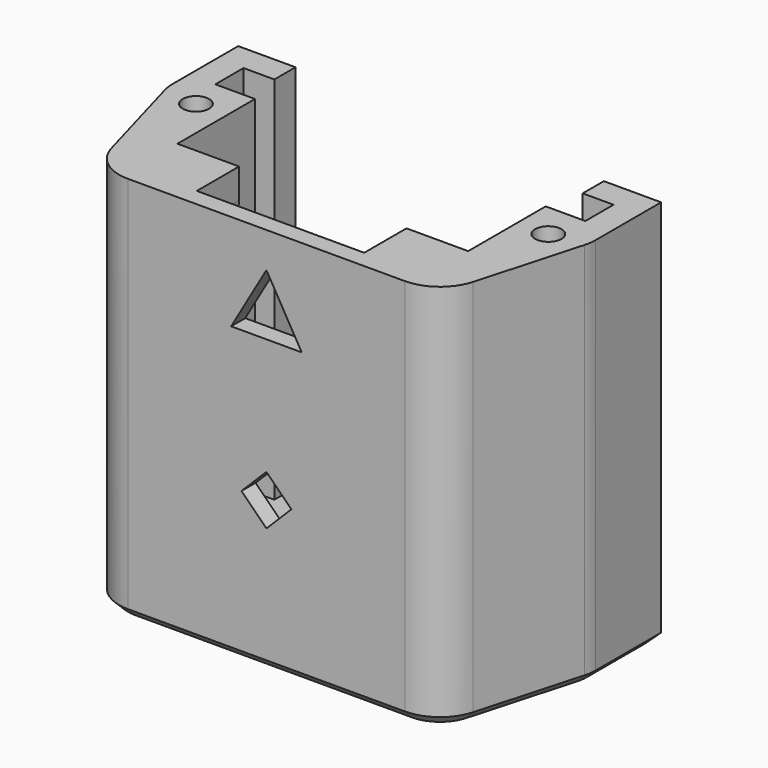
from build123d import *

# Parameters (mm, degrees)
PAD_DEPTH       = 42
PAD001_DEPTH    = 2
POCKET_DEPTH    = 2
PAD002_DEPTH    = 4
FILLET_R        = 5
SKETCH004_R     = 1.25
SKETCH004_W     = 7
SKETCH004_H     = 7
PAD003_DEPTH    = 6
FILLET001_R     = 4
SKETCH005_R     = 7.5
POCKET001_DEPTH = 1
SKETCH006_R     = 5
POCKET002_DEPTH = 1
SKETCH008_R     = 1.5
POCKET004_DEPTH = 5
CHAMFER_SIZE    = 1


with BuildPart() as part:
    # Sketch → Pad (new body)
    with BuildSketch(Plane.XY):
        Polygon((-17.5, 4), (-17.5, 7), (-24, 7), (-24, -3), (-19.5, -19), (19.5, -19), (24, -3), (24, 7), (17.5, 7), (17.5, 4), (21, 4), (21, 0), (16.5, 0), (16.5, -17), (-16.5, -17), (-16.5, 0), (-21, 0), (-21, 4), align=None)
    extrude(amount=PAD_DEPTH)

    # Sketch001 (on Face19 of Pad) → Pad001 (join)
    with BuildSketch(Plane(origin=(0, 0, 0), x_dir=(1, 0, 0), z_dir=(0, 0, -1))):
        Polygon((-19.5, 19), (19.5, 19), (24, 3), (24, -7), (-24, -7), (-24, 3), align=None)
    extrude(amount=PAD001_DEPTH)

    # Sketch002 (on Face18 of Pad001) → Pocket (cut)
    with BuildSketch(Plane.XZ.offset(19)):
        Polygon((-4, 31.071797), (0, 38), (4, 31.071797), align=None)
        Polygon((-2.828427, 15), (0, 17.828427), (2.828427, 15), (0, 12.171573), align=None)
    extrude(amount=-POCKET_DEPTH, mode=Mode.SUBTRACT)

    # Sketch003 (on Face12 of Pocket) → Pad002 (join)
    with BuildSketch(Plane(origin=(0, 0, 0), x_dir=(-1, 0, 0), z_dir=(0, 1, 0))):
        Polygon((-21, 29), (-21, 25), (-19.5, 27), align=None)
        Polygon((21, 29), (21, 25), (19.5, 27), align=None)
    extrude(amount=PAD002_DEPTH)

    # Fillet
    fillet_edges = [part.edges().sort_by_distance(p)[0] for p in [
        (-24, -3, 21),
        (-19.5, -19, 21),
        (19.5, -19, 21),
        (24, -3, 21),
    ]]
    fillet(fillet_edges, radius=FILLET_R)

    # Sketch004 (on Face16 of Fillet) → Pad003 (join)
    with BuildSketch(Plane(origin=(0, -17, 0), x_dir=(-1, 0, 0), z_dir=(0, 1, 0))):
        Polygon((-16.5, 42), (-9.5, 42), (-9.5, 37), (-16.5, 30), align=None)
        with Locations((-12.7, 38.56)):
            Circle(SKETCH004_R, mode=Mode.SUBTRACT)
        Polygon((16.5, 42), (9.5, 42), (9.5, 37), (16.5, 30), align=None)
        with Locations((12.7, 38.56)):
            Circle(SKETCH004_R, mode=Mode.SUBTRACT)
        with Locations((-13, 3.5)):
            Rectangle(SKETCH004_W, SKETCH004_H)
        with Locations((-12.7, 3)):
            Circle(SKETCH004_R, mode=Mode.SUBTRACT)
        with Locations((13, 3.5)):
            Rectangle(SKETCH004_W, SKETCH004_H)
        with Locations((12.7, 3)):
            Circle(SKETCH004_R, mode=Mode.SUBTRACT)
    extrude(amount=PAD003_DEPTH)

    # Fillet001
    fillet001_edges = [part.edges().sort_by_distance(p)[0] for p in [
        (9.5, -14, 37),
        (9.5, -14, 7),
        (-9.5, -14, 7),
        (-9.5, -14, 37),
    ]]
    fillet(fillet001_edges, radius=FILLET001_R)

    # Sketch005 (on Face7 of Fillet001) → Pocket001 (cut)
    with BuildSketch(Plane.XY):
        with Locations((0, -2)):
            Circle(SKETCH005_R)
    extrude(amount=-POCKET001_DEPTH, mode=Mode.SUBTRACT)

    # Sketch006 (on Face62 of Pocket001) → Pocket002 (cut)
    with BuildSketch(Plane.XY.offset(-1)):
        with Locations((0, -2)):
            Circle(SKETCH006_R)
    extrude(amount=-POCKET002_DEPTH, mode=Mode.SUBTRACT)

    # Sketch008 (on Face12 of Pocket002) → Pocket004 (cut)
    with BuildSketch(Plane.XY.offset(42)):
        with Locations((-20, -4)):
            Circle(SKETCH008_R)
        with Locations((20, -4)):
            Circle(SKETCH008_R)
    extrude(amount=-POCKET004_DEPTH, mode=Mode.SUBTRACT)

    # Chamfer
    chamfer_edges = [part.edges().sort_by_distance(p)[0] for p in [
        (0, -19, -2),
        (0, 7, -2),
    ]]
    chamfer(chamfer_edges, length=CHAMFER_SIZE)


solid = part.part
